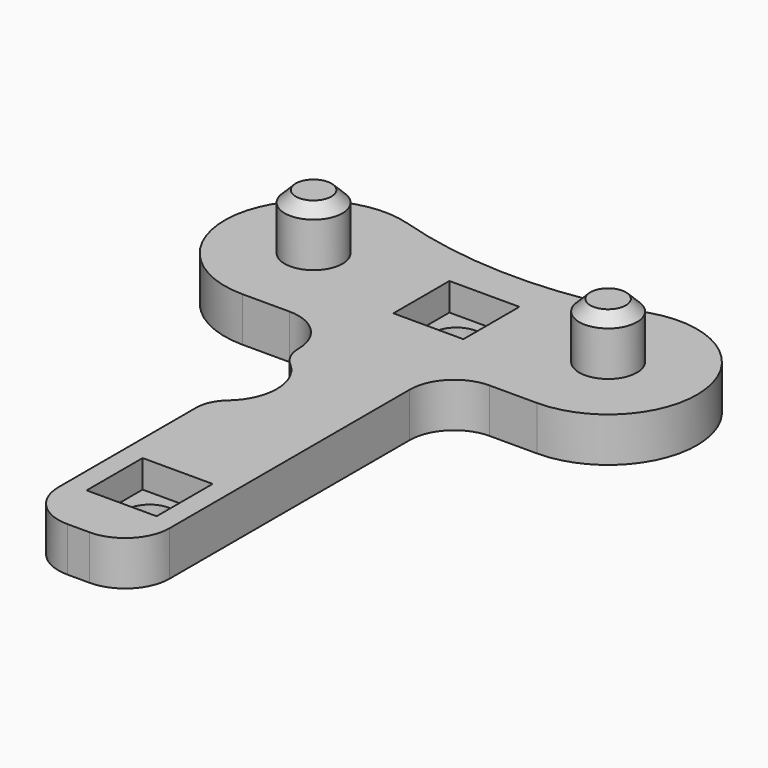
from build123d import *

# Parameters (mm, degrees)
PAD_DEPTH       = 4
SKETCH001_R     = 2.6
PAD001_DEPTH    = 5
SKETCH002_R     = 2.15
POCKET_DEPTH    = 4.001
SKETCH003_W     = 6.3
SKETCH003_H     = 6.3
POCKET001_DEPTH = 2.5
FILLET_R        = 4
CHAMFER_SIZE    = 1
SKETCH004_R     = 4.65
POCKET002_DEPTH = 4.001
FILLET001_R     = 3


with BuildPart() as part:
    # Sketch → Pad (new body)
    with BuildSketch(Plane.XY):
        with BuildLine():
            ThreePointArc((-10.894444, -35.359738), (0, -37), (10.894444, -35.359738))
            ThreePointArc((13.25, -51.005087), (21.16084, -41.814035), (10.894444, -35.359738))
            Line((13.25, -51.005087), (5, -51.005087))
            Line((5, -51.005087), (5, -86.005087))
            Line((-5, -86.005087), (5, -86.005087))
            Line((-5, -51.005087), (-5, -86.005087))
            Line((-13.25, -51.005087), (-5, -51.005087))
            ThreePointArc((-10.894444, -35.359738), (-21.16084, -41.814035), (-13.25, -51.005087))
        make_face()
    extrude(amount=PAD_DEPTH)

    # Sketch001 (on Face10 of Pad) → Pad001 (join)
    with BuildSketch(Plane.XY.offset(4)):
        with Locations((-13.25, -43.005087)):
            Circle(SKETCH001_R)
        with Locations((13.25, -43.005087)):
            Circle(SKETCH001_R)
    extrude(amount=PAD001_DEPTH)

    # Sketch002 (on Face5 of Pad001) → Pocket (cut, through all)
    with BuildSketch(Plane.XY.offset(4)):
        with Locations((0, -43.505087)):
            Circle(SKETCH002_R)
        with Locations((0, -78.005087)):
            Circle(SKETCH002_R)
    extrude(amount=-POCKET_DEPTH, mode=Mode.SUBTRACT)

    # Sketch003 (on Face5 of Pocket) → Pocket001 (cut)
    with BuildSketch(Plane.XY.offset(4)):
        with Locations((0, -43.505087)):
            Rectangle(SKETCH003_W, SKETCH003_H)
        with Locations((0, -78.005087)):
            Rectangle(SKETCH003_W, SKETCH003_H)
    extrude(amount=-POCKET001_DEPTH, mode=Mode.SUBTRACT)

    # Fillet
    fillet_edges = [part.edges().sort_by_distance(p)[0] for p in [
        (5, -51.005087, 2),
        (-5, -51.005087, 2),
        (-5, -86.005087, 2),
        (5, -86.005087, 2),
    ]]
    fillet(fillet_edges, radius=FILLET_R)

    # Chamfer
    chamfer_edges = [part.edges().sort_by_distance(p)[0] for p in [
        (-15.85, -43.005087, 9),
        (10.65, -43.005087, 9),
    ]]
    chamfer(chamfer_edges, length=CHAMFER_SIZE)

    # Sketch004 (on Face3 of Chamfer) → Pocket002 (cut, through all)
    with BuildSketch(Plane.XY.offset(4)):
        with Locations((-7, -60.755087)):
            Circle(SKETCH004_R)
    extrude(amount=-POCKET002_DEPTH, mode=Mode.SUBTRACT)

    # Fillet001
    fillet001_edges = [part.edges().sort_by_distance(p)[0] for p in [
        (-5, -56.557171, 2),
        (-5, -64.953003, 2),
    ]]
    fillet(fillet001_edges, radius=FILLET001_R)


solid = part.part
